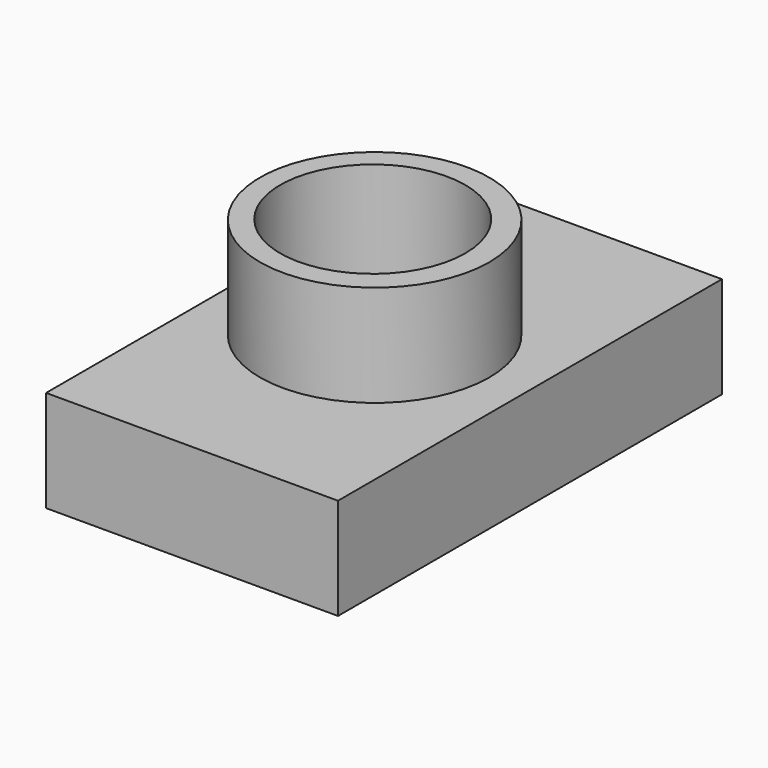
from build123d import *

# Parameters (mm, degrees)
F1_R     = 28.7120004049
F2_DEPTH = 50.8
F0_W     = 73.0837620795
F0_H     = 120.1344206929
F3_DEPTH = 25.4
F4_R     = 23.1683066689
F5_DEPTH = 149.098
F6_DEPTH = 50.8


with BuildPart() as f2:
    # F1 (on Top) → F2 (new body)
    with BuildSketch(Plane.XY):
        with Locations((-19.3457026035, 0)):
            Circle(F1_R)
    extrude(amount=F2_DEPTH)

    # F0 (on Top) → F3 (join)
    with BuildSketch(Plane.XY):
        with Locations((-17.6738519222, 0.8359253407)):
            Rectangle(F0_W, F0_H)
    extrude(amount=F3_DEPTH)

    # F4 (on Top) → F5 (cut)
    with BuildSketch(Plane.XY):
        with Locations((-19.8233742267, 0)):
            Circle(F4_R)
    extrude(amount=F5_DEPTH, mode=Mode.SUBTRACT)

    # F4 (on Top) → F6 (cut)
    with BuildSketch(Plane.XY):
        with Locations((-19.8233742267, 0)):
            Circle(F4_R)
    extrude(amount=F6_DEPTH, mode=Mode.SUBTRACT)


solid = f2.part
